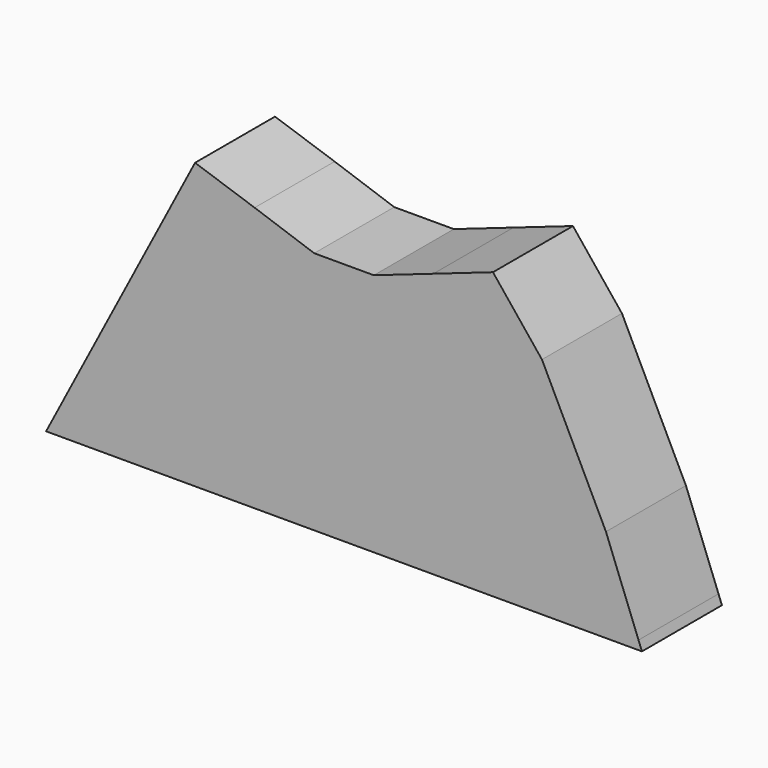
from build123d import *

# Parameters (mm, degrees)
F0_W     = 17.3708267914
F0_H     = 2.2607262182
F0_W_2   = 15.1384
F0_W_3   = 12.446
F0_W_4   = 16.2576251012
F0_H_2   = 58.7574650598
F1_DEPTH = 25.4


with BuildPart() as f1:
    # F0 (on Front) → F1 (new body)
    with BuildSketch(Plane.XZ):
        Polygon((-74.8703159117, 2.2607262182), (-76.0525148221, 0), (-63.6065148221, 0), (-63.6065148221, 2.2607262182), align=None)
        with Locations((-54.9211014264, 1.1303631091)):
            Rectangle(F0_W, F0_H)
        Polygon((-63.6065148221, 23.8005620413), (-74.8703159117, 2.2607262182), (-63.6065148221, 2.2607262182), align=None)
        Polygon((-46.2356880307, 2.2607262182), (-46.2356880307, 0), (-38.7145148221, 0), (-38.2065148221, 0), (-38.2065148221, 2.2607262182), align=None)
        Polygon((-63.6065148221, 23.8005620413), (-63.6065148221, 2.2607262182), (-46.2356880307, 2.2607262182), (-46.2356880307, 57.0189005241), align=None)
        Polygon((-46.2356880307, 57.0189005241), (-46.2356880307, 2.2607262182), (-38.2065148221, 2.2607262182), (-38.2065148221, 72.3731376358), align=None)
        Polygon((-38.2065148221, 2.2607262182), (-38.2065148221, 0), (-29.3896086514, 0), (-23.0681148221, 0), (-23.0681148221, 2.2607262182), align=None)
        Polygon((-38.2065148221, 72.3731376358), (-38.2065148221, 2.2607262182), (-23.0681148221, 2.2607262182), (-23.0681148221, 61.018191278), (-23.0681148221, 67.2444477677), align=None)
        with Locations((-15.4989148221, 1.1303631091)):
            Rectangle(F0_W_2, F0_H)
        Polygon((-7.9297148221, 61.9807612079), (-23.0681148221, 67.2444477677), (-23.0681148221, 61.018191278), (-7.9297148221, 61.018191278), align=None)
        Polygon((7.2086851779, 2.2607262182), (-7.9297148221, 2.2607262182), (-7.9297148221, 0), (2.1625517599, 0), (7.2086851779, 0), align=None)
        Polygon((-7.9297148221, 61.018191278), (-7.9297148221, 2.2607262182), (7.2086851779, 2.2607262182), (7.2086851779, 61.9807612079), (-7.9297148221, 61.9807612079), align=None)
        with Locations((14.7778851779, 1.1303631091)):
            Rectangle(F0_W_2, F0_H)
        Polygon((7.2086851779, 61.9807612079), (7.2086851779, 2.2607262182), (22.3470851779, 2.2607262182), (22.3470851779, 67.2444477677), align=None)
        with Locations((29.9162851779, 1.1303631091)):
            Rectangle(F0_W_2, F0_H)
        Polygon((22.3470851779, 67.2444477677), (22.3470851779, 2.2607262182), (37.4854851779, 2.2607262182), (37.4854851779, 72.5081343276), align=None)
        with Locations((43.7084851779, 1.1303631091)):
            Rectangle(F0_W_3, F0_H)
        Polygon((37.4854851779, 72.5081343276), (37.4854851779, 2.2607262182), (49.9314851779, 2.2607262182), (49.9314851779, 57.0189005241), align=None)
        with Locations((58.0602977285, 1.1303631091)):
            Rectangle(F0_W_4, F0_H)
        Polygon((49.9314851779, 57.0189005241), (49.9314851779, 2.2607262182), (66.1891102791, 2.2607262182), (66.1891102791, 23.8005620413), align=None)
        Polygon((74.4630852387, 2.2607262182), (66.1891102791, 2.2607262182), (66.1891102791, 0), (75.3314851779, 0), align=None)
        Polygon((66.1891102791, 23.8005620413), (66.1891102791, 2.2607262182), (74.4630852387, 2.2607262182), align=None)
        with Locations((-15.4989148221, 31.6394587481)):
            Rectangle(F0_W_2, F0_H_2)
    extrude(amount=F1_DEPTH)


solid = f1.part
